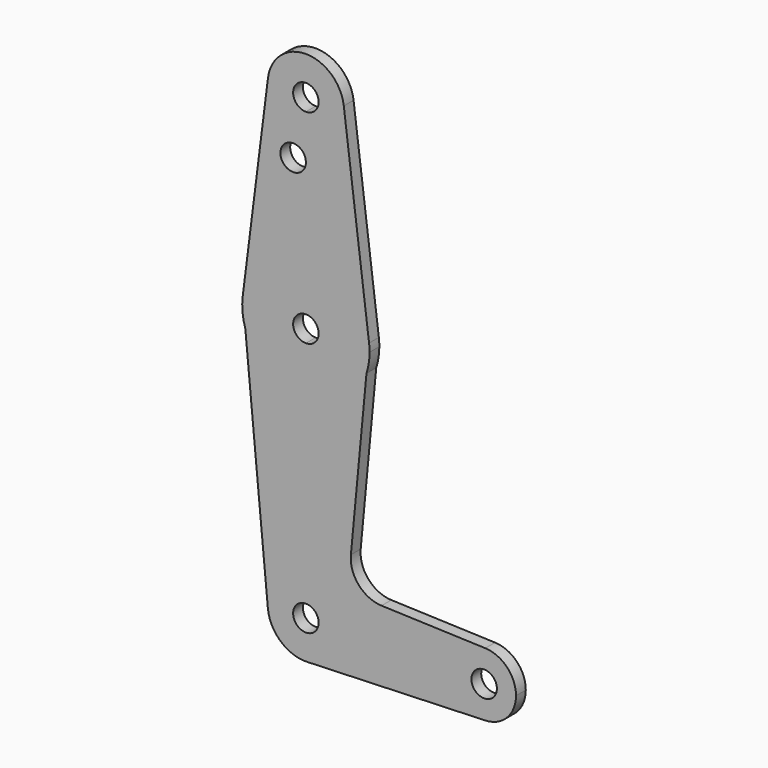
from build123d import *

# Parameters (mm, degrees)
F0_R     = 3.175
F1_DEPTH = 3.048


with BuildPart() as f1:
    # F0 (on Front) → F1 (new body)
    with BuildSketch(Plane.XZ):
        with BuildLine():
            ThreePointArc((3.175, 0), (-2.2450640303, -2.2450640303), (0, 3.175))
            Line((0, 3.175), (0, 9.525))
            ThreePointArc((0, 9.525), (-7.044647886, 6.4108159514), (-9.4828222655, -0.8953808583))
            ThreePointArc((-9.4828222655, -0.8953808583), (-6.2839760383, -7.1580213852), (0.3401786271, -9.5189234424))
            ThreePointArc((0.3401786271, -9.5189234424), (6.854408305, -6.6138273177), (9.525, 0))
            Line((9.525, 0), (3.175, 0))
        make_face()
        with BuildLine():
            ThreePointArc((-9.4828222655, -0.8953808583), (-7.044647886, 6.4108159514), (0, 9.525))
            Line((0, 9.525), (0, 47.625))
            ThreePointArc((0, 47.625), (-9.3346028611, 50.6594075516), (-15.1007031189, 58.6026139305))
            Line((-15.1007031189, 58.6026139305), (-9.4828222655, -0.8953808583))
        make_face()
        with BuildLine():
            Line((0, 47.625), (0, 9.525))
            ThreePointArc((0, 9.525), (6.7351920908, 6.7351920908), (9.525, 0))
            Line((9.525, 0), (36.5125, 0))
            ThreePointArc((36.5125, 0), (38.9384772185, 5.7120069047), (44.7334821429, 7.9324362036))
            Line((44.7334821429, 7.9324362036), (18.8554927994, 8.8572400953))
            ThreePointArc((18.8554927994, 8.8572400953), (13.1648666795, 11.5573428462), (11.2244328628, 17.5497127533))
            Line((11.2244328628, 17.5497127533), (15.1007031189, 58.6026139305))
            ThreePointArc((15.1007031189, 58.6026139305), (9.3346028611, 50.6594075516), (0, 47.625))
        make_face()
        with BuildLine():
            Line((36.5125, 0), (9.525, 0))
            ThreePointArc((9.525, 0), (6.854408305, -6.6138273177), (0.3401786271, -9.5189234424))
            Line((0.3401786271, -9.5189234424), (44.7334821429, -7.9324362036))
            ThreePointArc((44.7334821429, -7.9324362036), (38.9384772185, -5.7120069047), (36.5125, 0))
        make_face()
        with BuildLine():
            ThreePointArc((-15.1007031189, 58.6026139305), (-9.3346028611, 50.6594075516), (0, 47.625))
            Line((0, 47.625), (0, 60.325))
            ThreePointArc((0, 60.325), (-3.175, 63.5), (0, 66.675))
            Line((0, 66.675), (0, 79.375))
            ThreePointArc((0, 79.375), (-10.5003255158, 75.40625), (-15.7504882737, 65.484375))
            Line((-15.7504882737, 65.484375), (-15.1007031189, 58.6026139305))
        make_face()
        with BuildLine():
            Line((0, 60.325), (0, 47.625))
            ThreePointArc((0, 47.625), (9.3346028611, 50.6594075516), (15.1007031189, 58.6026139305))
            Line((15.1007031189, 58.6026139305), (15.7504882737, 65.484375))
            ThreePointArc((15.7504882737, 65.484375), (10.5003255158, 75.40625), (0, 79.375))
            Line((0, 79.375), (0, 66.675))
            ThreePointArc((0, 66.675), (2.2450640303, 65.7450640303), (3.175, 63.5))
            ThreePointArc((3.175, 63.5), (2.2450640303, 61.2549359697), (0, 60.325))
        make_face()
        with BuildLine():
            ThreePointArc((44.7334821429, 7.9324362036), (38.9384772185, 5.7120069047), (36.5125, 0))
            ThreePointArc((36.5125, 0), (38.9384772185, -5.7120069047), (44.7334821429, -7.9324362036))
            ThreePointArc((44.7334821429, -7.9324362036), (50.1620069047, -5.5115227815), (52.3875, 0))
            ThreePointArc((52.3875, 0), (50.1620069047, 5.5115227815), (44.7334821429, 7.9324362036))
        make_face()
        with BuildLine():
            ThreePointArc((47.625, 0), (44.45, -3.175), (41.275, 0))
            ThreePointArc((41.275, 0), (44.45, 3.175), (47.625, 0))
        make_face(mode=Mode.SUBTRACT)
        with BuildLine():
            ThreePointArc((-15.7504882737, 65.484375), (-15.8047037758, 62.0076985695), (-15.1007031189, 58.6026139305))
            Line((-15.1007031189, 58.6026139305), (-15.7504882737, 65.484375))
        make_face()
        with BuildLine():
            Line((15.7504882737, 65.484375), (15.1007031189, 58.6026139305))
            ThreePointArc((15.1007031189, 58.6026139305), (15.6802309775, 61.020890988), (15.875, 63.5))
            ThreePointArc((15.875, 63.5), (15.8438414904, 64.4941387366), (15.7504882737, 65.484375))
        make_face()
        with BuildLine():
            Line((-9.4502929642, 115.490625), (-15.7504882737, 65.484375))
            ThreePointArc((-15.7504882737, 65.484375), (-10.5003255158, 75.40625), (0, 79.375))
            Line((0, 79.375), (0, 100.0252))
            Line((0, 100.0252), (0, 104.775))
            ThreePointArc((0, 104.775), (-7.14375, 107.9998046905), (-9.4502929642, 115.490625))
        make_face()
        with Locations((-3.175, 100.0252)):
            Circle(F0_R, mode=Mode.SUBTRACT)
        with BuildLine():
            ThreePointArc((0, 79.375), (10.5003255158, 75.40625), (15.7504882737, 65.484375))
            Line((15.7504882737, 65.484375), (9.4502929642, 115.490625))
            ThreePointArc((9.4502929642, 115.490625), (9.5063048942, 114.896483242), (9.525, 114.3))
            ThreePointArc((9.525, 114.3), (6.7351920908, 107.5648079092), (0, 104.775))
            Line((0, 104.775), (0, 100.0252))
            Line((0, 100.0252), (0, 79.375))
        make_face()
        with BuildLine():
            ThreePointArc((9.4502929642, 115.490625), (0, 123.825), (-9.4502929642, 115.490625))
            ThreePointArc((-9.4502929642, 115.490625), (-7.14375, 107.9998046905), (0, 104.775))
            ThreePointArc((0, 104.775), (6.7351920908, 107.5648079092), (9.525, 114.3))
            ThreePointArc((9.525, 114.3), (9.5063048942, 114.896483242), (9.4502929642, 115.490625))
        make_face()
        with BuildLine():
            ThreePointArc((3.175, 114.3), (2.2450640303, 112.0549359697), (0, 111.125))
            ThreePointArc((0, 111.125), (-2.2450640303, 116.5450640303), (3.175, 114.3))
        make_face(mode=Mode.SUBTRACT)
        with BuildLine():
            Line((0, 9.525), (0, 3.175))
            ThreePointArc((0, 3.175), (2.2450640303, 2.2450640303), (3.175, 0))
            Line((3.175, 0), (9.525, 0))
            ThreePointArc((9.525, 0), (6.7351920908, 6.7351920908), (0, 9.525))
        make_face()
    extrude(amount=F1_DEPTH)


solid = f1.part
